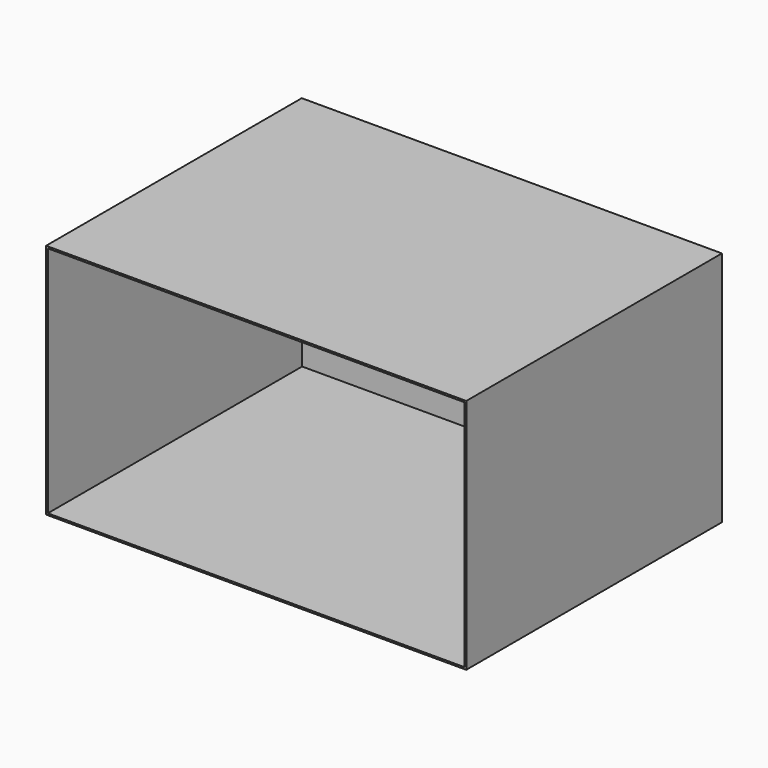
from build123d import *

# Parameters (mm, degrees)
F0_W     = 270
F0_H     = 200
F1_DEPTH = 355
F2_T     = -1.5


with BuildPart() as f1:
    # F0 (on Right) → F1 (new body)
    with BuildSketch(Plane.YZ):
        with Locations((135, 100)):
            Rectangle(F0_W, F0_H)
    extrude(amount=-F1_DEPTH)

    # F2
    f2_openings = [f1.faces().sort_by_distance(p)[0] for p in [
        (-177.5, 0, 100),
    ]]
    offset(amount=F2_T, openings=f2_openings)


solid = f1.part
